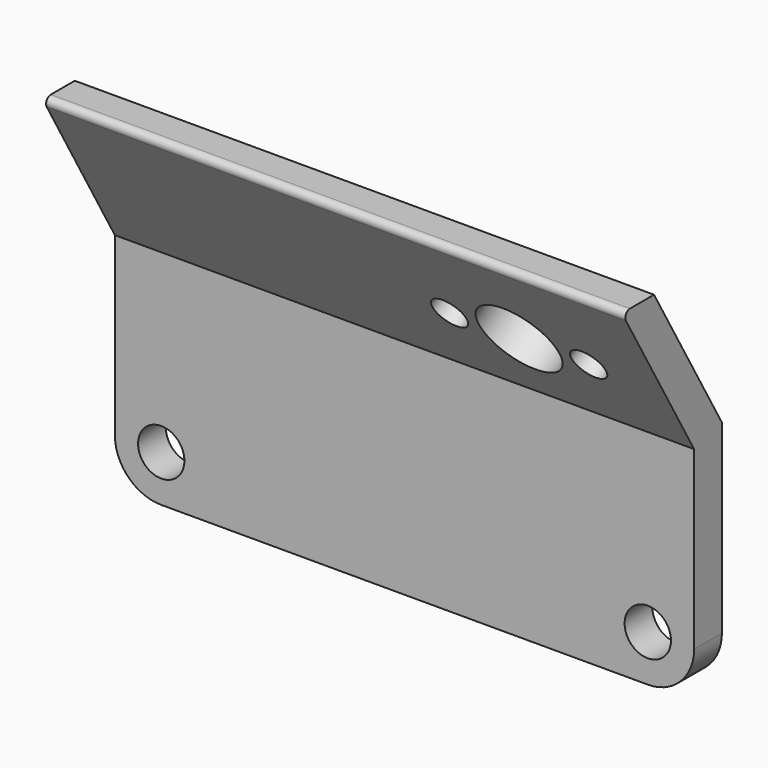
from build123d import *

# Parameters (mm, degrees)
F0_W     = 50
F0_H     = 20
F0_R     = 2
F1_DEPTH = 3
F2_R     = 4
F4_DEPTH = 50
F6_DEPTH = 25
F7_R     = 0.5


with BuildPart() as f1:
    # F0 (on Front) → F1 (new body)
    with BuildSketch(Plane.XZ):
        Rectangle(F0_W, F0_H)
        with Locations((-21, -6)):
            Circle(F0_R, mode=Mode.SUBTRACT)
        with Locations((21, -6)):
            Circle(F0_R, mode=Mode.SUBTRACT)
    extrude(amount=F1_DEPTH)

    # F2
    f2_edges = [f1.edges().sort_by_distance(p)[0] for p in [
        (-25, -1.5, -10),
        (25, -1.5, -10),
    ]]
    fillet(f2_edges, radius=F2_R)

    # F3 (on face) → F4 (join)
    with BuildSketch(Plane.YZ.offset(25)):
        Polygon((0, 10), (-7.3274360099, 22.6914914583), (-10.791537625, 22.6914914583), (-3, 9.1961524227), (-3, 10), align=None)
    extrude(amount=-F4_DEPTH)

    # F5 (on face) → F6 (cut)
    with BuildSketch(Plane(origin=(0, 4.3301270189, 2.5), x_dir=(-1, 0, 0), z_dir=(0, 0.8660254038, 0.5))):
        with BuildLine():
            Line((-16, 15.9876900477), (-9, 15.9876900477))
            ThreePointArc((-9, 15.9876900477), (-12.5, 19.4876900477), (-16, 15.9876900477))
        make_face()
        with BuildLine():
            ThreePointArc((-20, 15.9876900477), (-18.5, 14.4876900477), (-17, 15.9876900477))
            Line((-17, 15.9876900477), (-20, 15.9876900477))
        make_face()
        with BuildLine():
            Line((-20, 15.9876900477), (-17, 15.9876900477))
            ThreePointArc((-17, 15.9876900477), (-18.5, 17.4876900477), (-20, 15.9876900477))
        make_face()
        with BuildLine():
            ThreePointArc((-5, 15.9876900477), (-6.5, 17.4876900477), (-8, 15.9876900477))
            Line((-8, 15.9876900477), (-5, 15.9876900477))
        make_face()
        with BuildLine():
            Line((-5, 15.9876900477), (-8, 15.9876900477))
            ThreePointArc((-8, 15.9876900477), (-6.5, 14.4876900477), (-5, 15.9876900477))
        make_face()
        with BuildLine():
            ThreePointArc((-16, 15.9876900477), (-12.5, 12.4876900477), (-9, 15.9876900477))
            Line((-9, 15.9876900477), (-16, 15.9876900477))
        make_face()
    extrude(amount=-F6_DEPTH, mode=Mode.SUBTRACT)

    # F7
    f7_edges = [f1.edges().sort_by_distance(p)[0] for p in [
        (0, -10.791538, 22.691491),
    ]]
    fillet(f7_edges, radius=F7_R)


solid = f1.part
